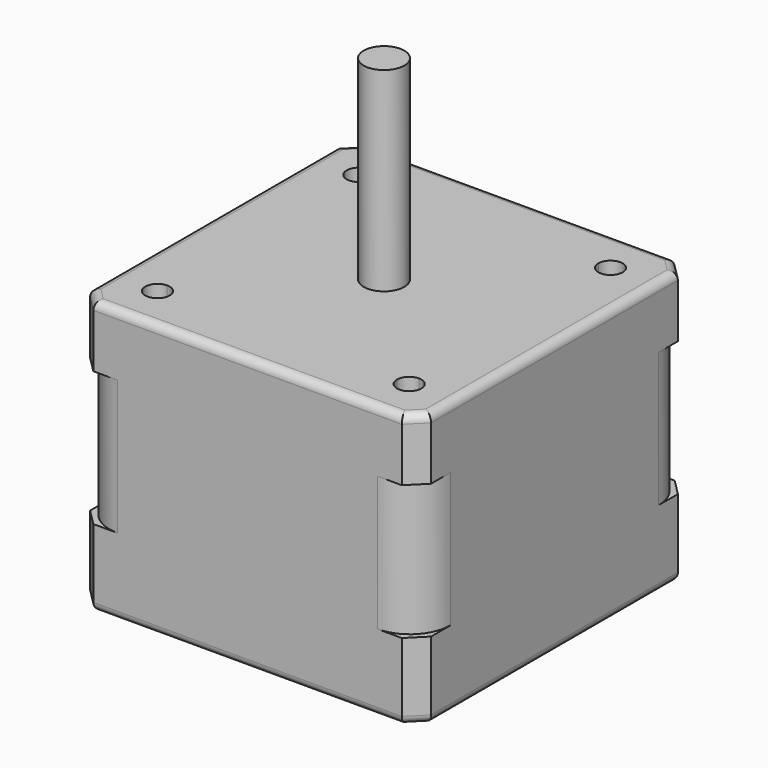
from build123d import *

# Parameters (mm, degrees)
F0_W     = 42
F0_H     = 42
F1_DEPTH = 9.5
F3_DEPTH = 16.57
F4_W     = 42
F4_H     = 42
F5_DEPTH = 7.6
F7_DEPTH = 3
F8_R     = 2.5
F9_DEPTH = 24
F10_SIZE = 2
F11_R    = 1


with BuildPart() as f1:
    # F0 (on Top) → F1 (new body)
    with BuildSketch(Plane.XY):
        Rectangle(F0_W, F0_H)
    extrude(amount=F1_DEPTH)

    # F2 (on face) → F3 (join)
    with BuildSketch(Plane.XY.offset(9.5)):
        with BuildLine():
            Line((-16, -21), (16, -21))
            ThreePointArc((16, -21), (19.5355339059, -19.5355339059), (21, -16))
            Line((21, -16), (21, 16))
            ThreePointArc((21, 16), (19.5355339059, 19.5355339059), (16, 21))
            Line((16, 21), (-16, 21))
            ThreePointArc((-16, 21), (-19.5355339059, 19.5355339059), (-21, 16))
            Line((-21, 16), (-21, -16))
            ThreePointArc((-21, -16), (-19.5355339059, -19.5355339059), (-16, -21))
        make_face()
    extrude(amount=F3_DEPTH)

    # F4 (on face) → F5 (join)
    with BuildSketch(Plane.XY.offset(26.07)):
        Rectangle(F4_W, F4_H)
    extrude(amount=F5_DEPTH)

    # F6 (on face) → F7 (cut)
    with BuildSketch(Plane.XY.offset(33.67)):
        with BuildLine():
            Line((15.5, -14), (15.5, -15.5))
            Line((15.5, -15.5), (14, -15.5))
            ThreePointArc((14, -15.5), (15.5, -17), (17, -15.5))
            ThreePointArc((17, -15.5), (16.5606601718, -14.4393398282), (15.5, -14))
        make_face()
        with BuildLine():
            Line((14, -15.5), (15.5, -15.5))
            Line((15.5, -15.5), (15.5, -14))
            ThreePointArc((15.5, -14), (14.4393398282, -14.4393398282), (14, -15.5))
        make_face()
        with BuildLine():
            Line((15.5, 14), (15.5, 15.5))
            Line((15.5, 15.5), (14, 15.5))
            ThreePointArc((14, 15.5), (14.4393398282, 14.4393398282), (15.5, 14))
        make_face()
        with BuildLine():
            Line((14, 15.5), (15.5, 15.5))
            Line((15.5, 15.5), (15.5, 14))
            ThreePointArc((15.5, 14), (16.5606601718, 14.4393398282), (17, 15.5))
            ThreePointArc((17, 15.5), (15.5, 17), (14, 15.5))
        make_face()
        with BuildLine():
            Line((-14, -15.5), (-15.5, -15.5))
            Line((-15.5, -15.5), (-15.5, -14))
            ThreePointArc((-15.5, -14), (-16.5606601718, -16.5606601718), (-14, -15.5))
        make_face()
        with BuildLine():
            Line((-15.5, -14), (-15.5, -15.5))
            Line((-15.5, -15.5), (-14, -15.5))
            ThreePointArc((-14, -15.5), (-14.4393398282, -14.4393398282), (-15.5, -14))
        make_face()
        with BuildLine():
            Line((-15.5, 15.5), (-14, 15.5))
            ThreePointArc((-14, 15.5), (-16.5606601718, 16.5606601718), (-15.5, 14))
            Line((-15.5, 14), (-15.5, 15.5))
        make_face()
        with BuildLine():
            ThreePointArc((-15.5, 14), (-14.4393398282, 14.4393398282), (-14, 15.5))
            Line((-14, 15.5), (-15.5, 15.5))
            Line((-15.5, 15.5), (-15.5, 14))
        make_face()
    extrude(amount=-F7_DEPTH, mode=Mode.SUBTRACT)

    # F8 (on face) → F9 (join)
    with BuildSketch(Plane.XY.offset(33.67)):
        Circle(F8_R)
    extrude(amount=F9_DEPTH)

    # F10
    f10_edges = [f1.edges().sort_by_distance(p)[0] for p in [
        (21, 21, 29.87),
        (21, 21, 4.75),
        (-21, 21, 29.87),
        (-21, 21, 4.75),
        (-21, -21, 29.87),
        (-21, -21, 4.75),
        (21, -21, 4.75),
        (21, -21, 29.87),
    ]]
    chamfer(f10_edges, length=F10_SIZE)

    # F11
    f11_edges = [f1.edges().sort_by_distance(p)[0] for p in [
        (0, 21, 33.67),
        (-20, 20, 33.67),
        (-21, 0, 33.67),
        (-20, -20, 33.67),
        (0, -21, 33.67),
        (20, -20, 33.67),
        (21, 0, 33.67),
        (20, 20, 33.67),
        (0, 21, 0),
        (21, 0, 0),
        (20, 20, 0),
        (-21, 0, 0),
        (-20, 20, 0),
        (0, -21, 0),
        (20, -20, 0),
        (-20, -20, 0),
    ]]
    fillet(f11_edges, radius=F11_R)


solid = f1.part
